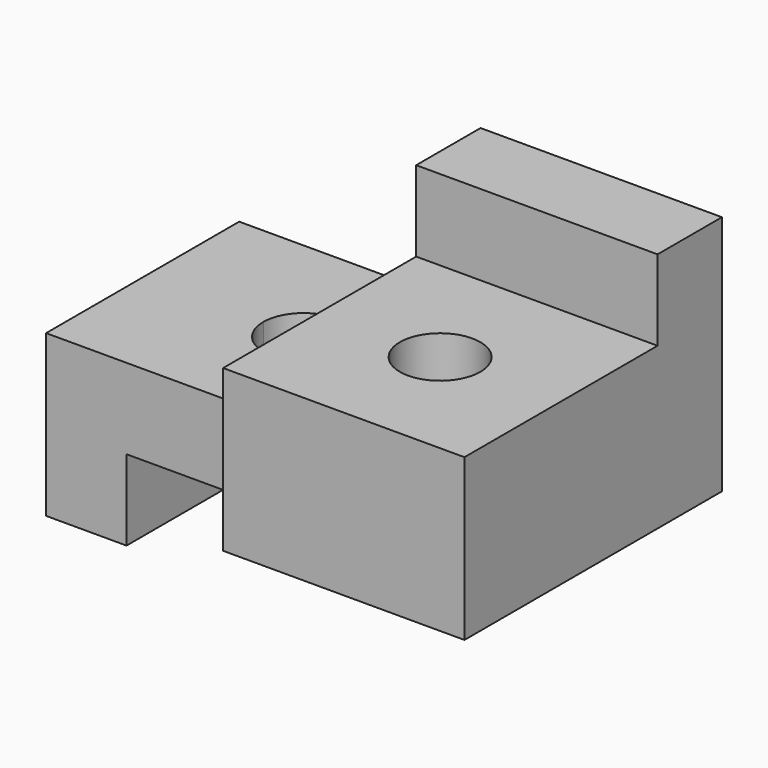
from build123d import *

# Parameters (mm, degrees)
F0_W      = 38.1
F0_H      = 25.4
F1_DEPTH  = 25.4
F2_W      = 19.05
F2_H      = 6.35
F3_DEPTH  = 25.401
F5_DEPTH  = 25.401
F6_W      = 19.05
F6_H      = 6.35
F7_DEPTH  = 38.101
F9_DEPTH  = 25.401
F11_DEPTH = 25.401


with BuildPart() as f1:
    # F0 (on Top) → F1 (new body)
    with BuildSketch(Plane.XY):
        with Locations((19.05, -12.7)):
            Rectangle(F0_W, F0_H)
    extrude(amount=F1_DEPTH)

    # F2 (on Top) → F3 (cut, through all)
    with BuildSketch(Plane.XY):
        with Locations((9.525, -22.225)):
            Rectangle(F2_W, F2_H)
    extrude(amount=F3_DEPTH, mode=Mode.SUBTRACT)

    # F4 (on Front) → F5 (cut, through all)
    with BuildSketch(Plane.XZ):
        Polygon((0, 25.4), (0, 12.7), (6.5755872056, 12.7), (19.05, 12.7), (19.05, 25.4), align=None)
        Polygon((6.35, 6.35), (6.35, 0), (38.1, 0), (38.1, 6.35), (6.5755872056, 6.35), align=None)
    extrude(amount=F5_DEPTH, mode=Mode.SUBTRACT)

    # F6 (on Right) → F7 (cut, through all)
    with BuildSketch(Plane.YZ):
        with Locations((-15.875, 22.225)):
            Rectangle(F6_W, F6_H)
    extrude(amount=F7_DEPTH, mode=Mode.SUBTRACT)

    # F8 (on Top) → F9 (cut, through all)
    with BuildSketch(Plane.XY):
        with BuildLine():
            Line((28.9195947389, -19.05), (28.2304052611, -19.05))
            ThreePointArc((28.2304052611, -19.05), (28.575, -19.0687554806), (28.9195947389, -19.05))
        make_face()
        with BuildLine():
            ThreePointArc((31.75, -15.8937554806), (26.4552669149, -13.5299964726), (28.2304052611, -19.05))
            Line((28.2304052611, -19.05), (28.9195947389, -19.05))
            ThreePointArc((28.9195947389, -19.05), (30.938759008, -18.0134885657), (31.75, -15.8937554806))
        make_face()
    extrude(amount=F9_DEPTH, mode=Mode.SUBTRACT)

    # F10 (on Top) → F11 (cut, through all)
    with BuildSketch(Plane.XY):
        with BuildLine():
            ThreePointArc((15.875, -9.525), (14.9450640303, -7.2799359697), (12.7, -6.35))
            Line((12.7, -6.35), (12.7, -9.525))
            Line((12.7, -9.525), (9.525, -9.525))
            ThreePointArc((9.525, -9.525), (12.7, -12.7), (15.875, -9.525))
        make_face()
        with BuildLine():
            Line((12.7, -9.525), (12.7, -6.35))
            ThreePointArc((12.7, -6.35), (10.4549359697, -7.2799359697), (9.525, -9.525))
            Line((9.525, -9.525), (12.7, -9.525))
        make_face()
    extrude(amount=F11_DEPTH, mode=Mode.SUBTRACT)


solid = f1.part
